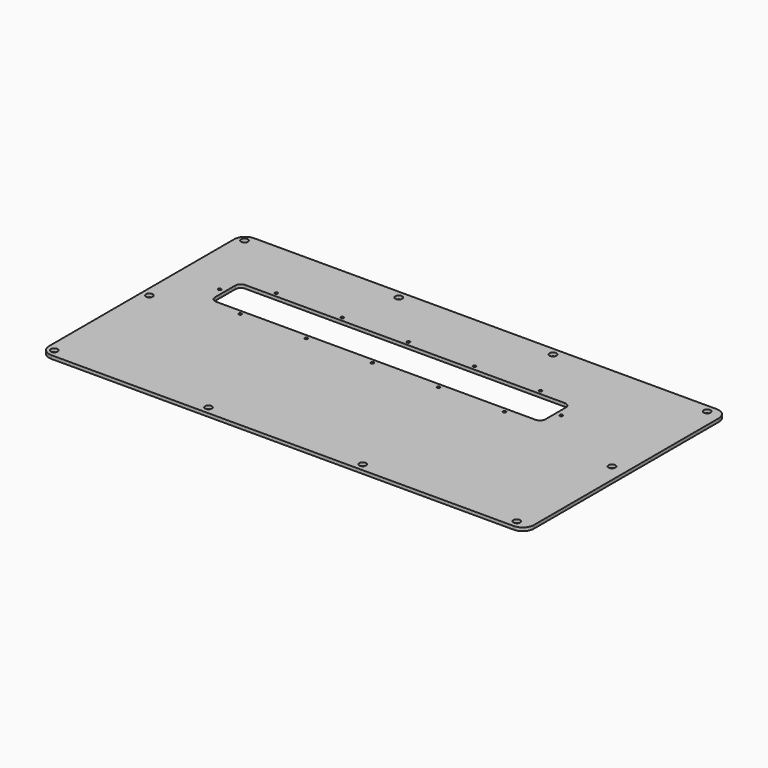
from build123d import *

# Parameters (mm, degrees)
F0_W     = 440
F0_H     = 230
F1_DEPTH = 3
F2_W     = 300
F2_H     = 33
F2_R     = 1.35
F2_R_2   = 3.1
F3_DEPTH = 3.001
F4_R     = 10
F5_R     = 5


with BuildPart() as f1:
    # F0 (on Top) → F1 (new body)
    with BuildSketch(Plane.XY):
        with Locations((220, 115)):
            Rectangle(F0_W, F0_H)
    extrude(amount=F1_DEPTH)

    # F2 (on face) → F3 (cut, through all)
    with BuildSketch(Plane.XY.offset(3)):
        with Locations((195, 153.5)):
            Rectangle(F2_W, F2_H)
        with Locations((40, 153.5)):
            Circle(F2_R)
        with Locations((75, 174)):
            Circle(F2_R)
        with Locations((75, 133)):
            Circle(F2_R)
        with Locations((135, 174)):
            Circle(F2_R)
        with Locations((135, 133)):
            Circle(F2_R)
        with Locations((195, 174)):
            Circle(F2_R)
        with Locations((195, 133)):
            Circle(F2_R)
        with Locations((255, 174)):
            Circle(F2_R)
        with Locations((255, 133)):
            Circle(F2_R)
        with Locations((315, 174)):
            Circle(F2_R)
        with Locations((315, 133)):
            Circle(F2_R)
        with Locations((350, 153.5)):
            Circle(F2_R)
        with Locations((7, 7)):
            Circle(F2_R_2)
        with Locations((7, 115)):
            Circle(F2_R_2)
        with Locations((147, 7)):
            Circle(F2_R_2)
        with Locations((287, 7)):
            Circle(F2_R_2)
        with Locations((427, 7)):
            Circle(F2_R_2)
        with Locations((427, 115)):
            Circle(F2_R_2)
        with Locations((7, 223)):
            Circle(F2_R_2)
        with Locations((147, 223)):
            Circle(F2_R_2)
        with Locations((287, 223)):
            Circle(F2_R_2)
        with Locations((427, 223)):
            Circle(F2_R_2)
    extrude(amount=-F3_DEPTH, mode=Mode.SUBTRACT)

    # F4
    f4_edges = [f1.edges().sort_by_distance(p)[0] for p in [
        (440, 0, 1.5),
        (0, 0, 1.5),
        (440, 230, 1.5),
        (0, 230, 1.5),
    ]]
    fillet(f4_edges, radius=F4_R)

    # F5
    f5_edges = [f1.edges().sort_by_distance(p)[0] for p in [
        (45, 137, 1.5),
        (45, 170, 1.5),
        (345, 170, 1.5),
        (345, 137, 1.5),
    ]]
    fillet(f5_edges, radius=F5_R)


solid = f1.part
